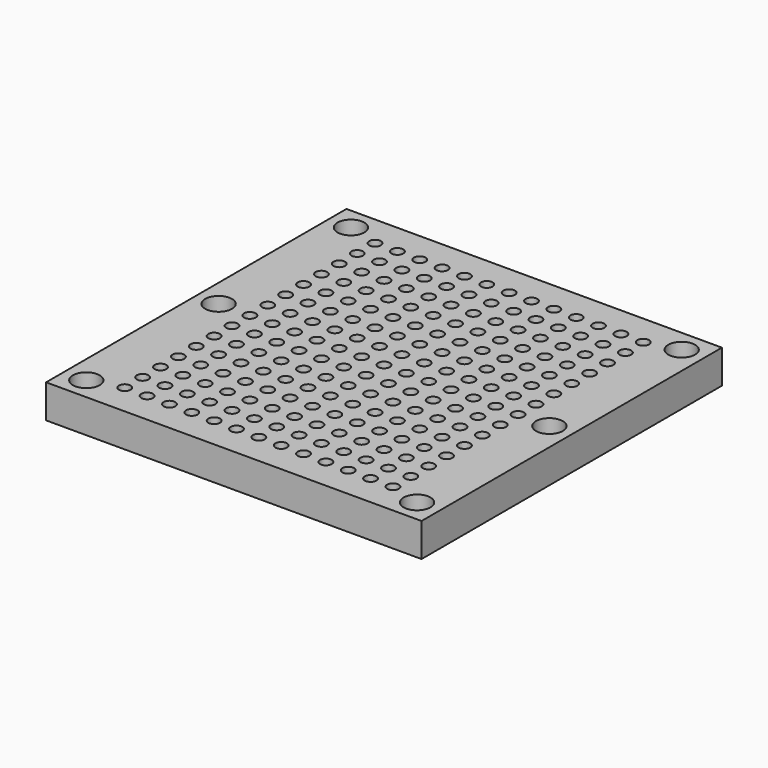
from build123d import *

# Parameters (mm, degrees)
SKETCH037_W     = 84
SKETCH037_H     = 84
SKETCH037_R     = 3
SKETCH037_R_2   = 1.6
PAD018_DEPTH    = 4
SKETCH038_W     = 84
SKETCH038_H     = 84
SKETCH038_R     = 3
PAD019_DEPTH    = 3.5
SKETCH039_R     = 1.3
POCKET019_DEPTH = 8


with BuildPart() as part:
    # Sketch037 (on DatumPlane) → Pad018 (new body)
    with BuildSketch(Plane(origin=(7.68e-08, -84, 27.3535535674), x_dir=(-1, 0, 2.8e-09), z_dir=(2.8e-09, 0, 1))):
        with Locations((-41.9999999289, -42)):
            Rectangle(SKETCH037_W, SKETCH037_H)
        with Locations((-79, -42)):
            Circle(SKETCH037_R, mode=Mode.SUBTRACT)
        with Locations((-5, -42)):
            Circle(SKETCH037_R, mode=Mode.SUBTRACT)
        with Locations((-79, -5)):
            Circle(SKETCH037_R_2, mode=Mode.SUBTRACT)
        with Locations((-79, -79)):
            Circle(SKETCH037_R_2, mode=Mode.SUBTRACT)
        with Locations((-5, -5)):
            Circle(SKETCH037_R_2, mode=Mode.SUBTRACT)
        with Locations((-5, -79)):
            Circle(SKETCH037_R_2, mode=Mode.SUBTRACT)
    extrude(amount=PAD018_DEPTH)

    # Sketch038 (on Face12 of Pad018) → Pad019 (join)
    with BuildSketch(Plane(origin=(8.8e-08, -84, 31.3535535674), x_dir=(-1, 0, 2.8e-09), z_dir=(2.8e-09, 0, 1))):
        with Locations((-41.9999999289, -42)):
            Rectangle(SKETCH038_W, SKETCH038_H)
        with Locations((-79, -42)):
            Circle(SKETCH038_R, mode=Mode.SUBTRACT)
        with Locations((-5, -42)):
            Circle(SKETCH038_R, mode=Mode.SUBTRACT)
        with Locations((-79, -79)):
            Circle(SKETCH038_R, mode=Mode.SUBTRACT)
        with Locations((-5, -79)):
            Circle(SKETCH038_R, mode=Mode.SUBTRACT)
        with Locations((-5, -5)):
            Circle(SKETCH038_R, mode=Mode.SUBTRACT)
        with Locations((-79, -5)):
            Circle(SKETCH038_R, mode=Mode.SUBTRACT)
    extrude(amount=PAD019_DEPTH)

    # Sketch039 (on Face11 of Pad019) → Pocket019 (cut)
    with BuildSketch(Plane(origin=(9.78e-08, -84, 34.8535535674), x_dir=(-1, 0, 2.8e-09), z_dir=(2.8e-09, 0, 1))):
        with Locations((-41.9999999289, -42)):
            Circle(SKETCH039_R)
        with Locations((-37, -42)):
            Circle(SKETCH039_R)
        with Locations((-32, -42)):
            Circle(SKETCH039_R)
        with Locations((-27, -42)):
            Circle(SKETCH039_R)
        with Locations((-22, -42)):
            Circle(SKETCH039_R)
        with Locations((-17, -42)):
            Circle(SKETCH039_R)
        with Locations((-12, -42)):
            Circle(SKETCH039_R)
        with Locations((-42, -37)):
            Circle(SKETCH039_R)
        with Locations((-37, -37)):
            Circle(SKETCH039_R)
        with Locations((-32, -37)):
            Circle(SKETCH039_R)
        with Locations((-27, -37)):
            Circle(SKETCH039_R)
        with Locations((-22, -37)):
            Circle(SKETCH039_R)
        with Locations((-17, -37)):
            Circle(SKETCH039_R)
        with Locations((-12, -37)):
            Circle(SKETCH039_R)
        with Locations((-42, -32)):
            Circle(SKETCH039_R)
        with Locations((-37, -32)):
            Circle(SKETCH039_R)
        with Locations((-32, -32)):
            Circle(SKETCH039_R)
        with Locations((-27, -32)):
            Circle(SKETCH039_R)
        with Locations((-22, -32)):
            Circle(SKETCH039_R)
        with Locations((-17, -32)):
            Circle(SKETCH039_R)
        with Locations((-12, -32)):
            Circle(SKETCH039_R)
        with Locations((-42, -27)):
            Circle(SKETCH039_R)
        with Locations((-37, -27)):
            Circle(SKETCH039_R)
        with Locations((-32, -27)):
            Circle(SKETCH039_R)
        with Locations((-27, -27)):
            Circle(SKETCH039_R)
        with Locations((-22, -27)):
            Circle(SKETCH039_R)
        with Locations((-17, -27)):
            Circle(SKETCH039_R)
        with Locations((-12, -27)):
            Circle(SKETCH039_R)
        with Locations((-42, -22)):
            Circle(SKETCH039_R)
        with Locations((-37, -22)):
            Circle(SKETCH039_R)
        with Locations((-32, -22)):
            Circle(SKETCH039_R)
        with Locations((-27, -22)):
            Circle(SKETCH039_R)
        with Locations((-22, -22)):
            Circle(SKETCH039_R)
        with Locations((-17, -22)):
            Circle(SKETCH039_R)
        with Locations((-12, -22)):
            Circle(SKETCH039_R)
        with Locations((-42, -17)):
            Circle(SKETCH039_R)
        with Locations((-37, -17)):
            Circle(SKETCH039_R)
        with Locations((-32, -17)):
            Circle(SKETCH039_R)
        with Locations((-27, -17)):
            Circle(SKETCH039_R)
        with Locations((-22, -17)):
            Circle(SKETCH039_R)
        with Locations((-17, -17)):
            Circle(SKETCH039_R)
        with Locations((-12, -17)):
            Circle(SKETCH039_R)
        with Locations((-42, -12)):
            Circle(SKETCH039_R)
        with Locations((-37, -12)):
            Circle(SKETCH039_R)
        with Locations((-32, -12)):
            Circle(SKETCH039_R)
        with Locations((-27, -12)):
            Circle(SKETCH039_R)
        with Locations((-22, -12)):
            Circle(SKETCH039_R)
        with Locations((-17, -12)):
            Circle(SKETCH039_R)
        with Locations((-12, -12)):
            Circle(SKETCH039_R)
        with Locations((-42, -7)):
            Circle(SKETCH039_R)
        with Locations((-37, -7)):
            Circle(SKETCH039_R)
        with Locations((-32, -7)):
            Circle(SKETCH039_R)
        with Locations((-27, -7)):
            Circle(SKETCH039_R)
        with Locations((-22, -7)):
            Circle(SKETCH039_R)
        with Locations((-17, -7)):
            Circle(SKETCH039_R)
        with Locations((-12, -7)):
            Circle(SKETCH039_R)
        with Locations((-46.9999998577, -42)):
            Circle(SKETCH039_R)
        with Locations((-51.9999998577, -42)):
            Circle(SKETCH039_R)
        with Locations((-56.9999998577, -42)):
            Circle(SKETCH039_R)
        with Locations((-61.9999998577, -42)):
            Circle(SKETCH039_R)
        with Locations((-66.9999998577, -42)):
            Circle(SKETCH039_R)
        with Locations((-71.9999998577, -42)):
            Circle(SKETCH039_R)
        with Locations((-46.9999998577, -37)):
            Circle(SKETCH039_R)
        with Locations((-51.9999998577, -37)):
            Circle(SKETCH039_R)
        with Locations((-56.9999998577, -37)):
            Circle(SKETCH039_R)
        with Locations((-61.9999998577, -37)):
            Circle(SKETCH039_R)
        with Locations((-66.9999998577, -37)):
            Circle(SKETCH039_R)
        with Locations((-71.9999998577, -37)):
            Circle(SKETCH039_R)
        with Locations((-46.9999998577, -32)):
            Circle(SKETCH039_R)
        with Locations((-51.9999998577, -32)):
            Circle(SKETCH039_R)
        with Locations((-56.9999998577, -32)):
            Circle(SKETCH039_R)
        with Locations((-61.9999998577, -32)):
            Circle(SKETCH039_R)
        with Locations((-66.9999998577, -32)):
            Circle(SKETCH039_R)
        with Locations((-71.9999998577, -32)):
            Circle(SKETCH039_R)
        with Locations((-46.9999998577, -27)):
            Circle(SKETCH039_R)
        with Locations((-51.9999998577, -27)):
            Circle(SKETCH039_R)
        with Locations((-56.9999998577, -27)):
            Circle(SKETCH039_R)
        with Locations((-61.9999998577, -27)):
            Circle(SKETCH039_R)
        with Locations((-66.9999998577, -27)):
            Circle(SKETCH039_R)
        with Locations((-71.9999998577, -27)):
            Circle(SKETCH039_R)
        with Locations((-46.9999998577, -22)):
            Circle(SKETCH039_R)
        with Locations((-51.9999998577, -22)):
            Circle(SKETCH039_R)
        with Locations((-56.9999998577, -22)):
            Circle(SKETCH039_R)
        with Locations((-61.9999998577, -22)):
            Circle(SKETCH039_R)
        with Locations((-66.9999998577, -22)):
            Circle(SKETCH039_R)
        with Locations((-71.9999998577, -22)):
            Circle(SKETCH039_R)
        with Locations((-46.9999998577, -17)):
            Circle(SKETCH039_R)
        with Locations((-51.9999998577, -17)):
            Circle(SKETCH039_R)
        with Locations((-56.9999998577, -17)):
            Circle(SKETCH039_R)
        with Locations((-61.9999998577, -17)):
            Circle(SKETCH039_R)
        with Locations((-66.9999998577, -17)):
            Circle(SKETCH039_R)
        with Locations((-71.9999998577, -17)):
            Circle(SKETCH039_R)
        with Locations((-46.9999998577, -12)):
            Circle(SKETCH039_R)
        with Locations((-51.9999998577, -12)):
            Circle(SKETCH039_R)
        with Locations((-56.9999998577, -12)):
            Circle(SKETCH039_R)
        with Locations((-61.9999998577, -12)):
            Circle(SKETCH039_R)
        with Locations((-66.9999998577, -12)):
            Circle(SKETCH039_R)
        with Locations((-71.9999998577, -12)):
            Circle(SKETCH039_R)
        with Locations((-46.9999998577, -7)):
            Circle(SKETCH039_R)
        with Locations((-51.9999998577, -7)):
            Circle(SKETCH039_R)
        with Locations((-56.9999998577, -7)):
            Circle(SKETCH039_R)
        with Locations((-61.9999998577, -7)):
            Circle(SKETCH039_R)
        with Locations((-66.9999998577, -7)):
            Circle(SKETCH039_R)
        with Locations((-71.9999998577, -7)):
            Circle(SKETCH039_R)
        with Locations((-42, -47)):
            Circle(SKETCH039_R)
        with Locations((-37, -47)):
            Circle(SKETCH039_R)
        with Locations((-32, -47)):
            Circle(SKETCH039_R)
        with Locations((-27, -47)):
            Circle(SKETCH039_R)
        with Locations((-22, -47)):
            Circle(SKETCH039_R)
        with Locations((-17, -47)):
            Circle(SKETCH039_R)
        with Locations((-12, -47)):
            Circle(SKETCH039_R)
        with Locations((-42, -52)):
            Circle(SKETCH039_R)
        with Locations((-37, -52)):
            Circle(SKETCH039_R)
        with Locations((-32, -52)):
            Circle(SKETCH039_R)
        with Locations((-27, -52)):
            Circle(SKETCH039_R)
        with Locations((-22, -52)):
            Circle(SKETCH039_R)
        with Locations((-17, -52)):
            Circle(SKETCH039_R)
        with Locations((-12, -52)):
            Circle(SKETCH039_R)
        with Locations((-42, -57)):
            Circle(SKETCH039_R)
        with Locations((-37, -57)):
            Circle(SKETCH039_R)
        with Locations((-32, -57)):
            Circle(SKETCH039_R)
        with Locations((-27, -57)):
            Circle(SKETCH039_R)
        with Locations((-22, -57)):
            Circle(SKETCH039_R)
        with Locations((-17, -57)):
            Circle(SKETCH039_R)
        with Locations((-12, -57)):
            Circle(SKETCH039_R)
        with Locations((-42, -62)):
            Circle(SKETCH039_R)
        with Locations((-37, -62)):
            Circle(SKETCH039_R)
        with Locations((-32, -62)):
            Circle(SKETCH039_R)
        with Locations((-27, -62)):
            Circle(SKETCH039_R)
        with Locations((-22, -62)):
            Circle(SKETCH039_R)
        with Locations((-17, -62)):
            Circle(SKETCH039_R)
        with Locations((-12, -62)):
            Circle(SKETCH039_R)
        with Locations((-42, -67)):
            Circle(SKETCH039_R)
        with Locations((-37, -67)):
            Circle(SKETCH039_R)
        with Locations((-32, -67)):
            Circle(SKETCH039_R)
        with Locations((-27, -67)):
            Circle(SKETCH039_R)
        with Locations((-22, -67)):
            Circle(SKETCH039_R)
        with Locations((-17, -67)):
            Circle(SKETCH039_R)
        with Locations((-12, -67)):
            Circle(SKETCH039_R)
        with Locations((-42, -72)):
            Circle(SKETCH039_R)
        with Locations((-37, -72)):
            Circle(SKETCH039_R)
        with Locations((-32, -72)):
            Circle(SKETCH039_R)
        with Locations((-27, -72)):
            Circle(SKETCH039_R)
        with Locations((-22, -72)):
            Circle(SKETCH039_R)
        with Locations((-17, -72)):
            Circle(SKETCH039_R)
        with Locations((-12, -72)):
            Circle(SKETCH039_R)
        with Locations((-42, -77)):
            Circle(SKETCH039_R)
        with Locations((-37, -77)):
            Circle(SKETCH039_R)
        with Locations((-32, -77)):
            Circle(SKETCH039_R)
        with Locations((-27, -77)):
            Circle(SKETCH039_R)
        with Locations((-22, -77)):
            Circle(SKETCH039_R)
        with Locations((-17, -77)):
            Circle(SKETCH039_R)
        with Locations((-12, -77)):
            Circle(SKETCH039_R)
        with Locations((-46.9999998577, -47)):
            Circle(SKETCH039_R)
        with Locations((-51.9999998577, -47)):
            Circle(SKETCH039_R)
        with Locations((-56.9999998577, -47)):
            Circle(SKETCH039_R)
        with Locations((-61.9999998577, -47)):
            Circle(SKETCH039_R)
        with Locations((-66.9999998577, -47)):
            Circle(SKETCH039_R)
        with Locations((-71.9999998577, -47)):
            Circle(SKETCH039_R)
        with Locations((-46.9999998577, -52)):
            Circle(SKETCH039_R)
        with Locations((-51.9999998577, -52)):
            Circle(SKETCH039_R)
        with Locations((-56.9999998577, -52)):
            Circle(SKETCH039_R)
        with Locations((-61.9999998577, -52)):
            Circle(SKETCH039_R)
        with Locations((-66.9999998577, -52)):
            Circle(SKETCH039_R)
        with Locations((-71.9999998577, -52)):
            Circle(SKETCH039_R)
        with Locations((-46.9999998577, -57)):
            Circle(SKETCH039_R)
        with Locations((-51.9999998577, -57)):
            Circle(SKETCH039_R)
        with Locations((-56.9999998577, -57)):
            Circle(SKETCH039_R)
        with Locations((-61.9999998577, -57)):
            Circle(SKETCH039_R)
        with Locations((-66.9999998577, -57)):
            Circle(SKETCH039_R)
        with Locations((-71.9999998577, -57)):
            Circle(SKETCH039_R)
        with Locations((-46.9999998577, -62)):
            Circle(SKETCH039_R)
        with Locations((-51.9999998577, -62)):
            Circle(SKETCH039_R)
        with Locations((-56.9999998577, -62)):
            Circle(SKETCH039_R)
        with Locations((-61.9999998577, -62)):
            Circle(SKETCH039_R)
        with Locations((-66.9999998577, -62)):
            Circle(SKETCH039_R)
        with Locations((-71.9999998577, -62)):
            Circle(SKETCH039_R)
        with Locations((-46.9999998577, -67)):
            Circle(SKETCH039_R)
        with Locations((-51.9999998577, -67)):
            Circle(SKETCH039_R)
        with Locations((-56.9999998577, -67)):
            Circle(SKETCH039_R)
        with Locations((-61.9999998577, -67)):
            Circle(SKETCH039_R)
        with Locations((-66.9999998577, -67)):
            Circle(SKETCH039_R)
        with Locations((-71.9999998577, -67)):
            Circle(SKETCH039_R)
        with Locations((-46.9999998577, -72)):
            Circle(SKETCH039_R)
        with Locations((-51.9999998577, -72)):
            Circle(SKETCH039_R)
        with Locations((-56.9999998577, -72)):
            Circle(SKETCH039_R)
        with Locations((-61.9999998577, -72)):
            Circle(SKETCH039_R)
        with Locations((-66.9999998577, -72)):
            Circle(SKETCH039_R)
        with Locations((-71.9999998577, -72)):
            Circle(SKETCH039_R)
        with Locations((-46.9999998577, -77)):
            Circle(SKETCH039_R)
        with Locations((-51.9999998577, -77)):
            Circle(SKETCH039_R)
        with Locations((-56.9999998577, -77)):
            Circle(SKETCH039_R)
        with Locations((-61.9999998577, -77)):
            Circle(SKETCH039_R)
        with Locations((-66.9999998577, -77)):
            Circle(SKETCH039_R)
        with Locations((-71.9999998577, -77)):
            Circle(SKETCH039_R)
    extrude(amount=-POCKET019_DEPTH, mode=Mode.SUBTRACT)


with BuildPart() as part_1:
    # Body008 placement: moved
    add(part.part.moved(Location((-42, 42, -5))))


solid = part_1.part
